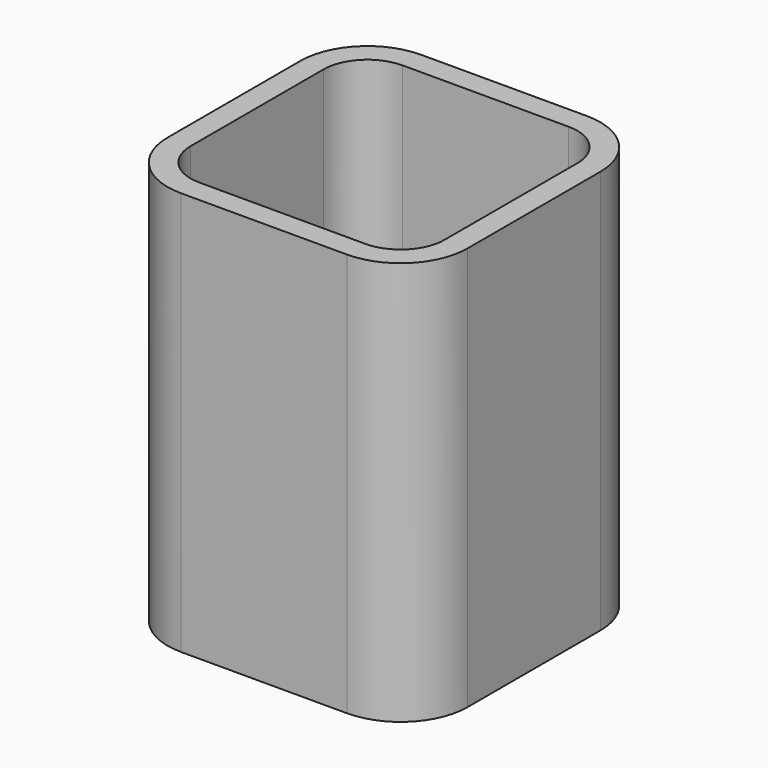
from build123d import *

# Parameters (mm, degrees)
F1_DEPTH = 35
F2_DEPTH = 2
F3_D     = 2.5


with BuildPart() as f1:
    # F0 (on Top) → F1 (new body)
    with BuildSketch(Plane.XY):
        with BuildLine():
            Line((13, -7.19), (13, 7.19))
            ThreePointArc((13, 7.19), (11.29829, 11.29829), (7.19, 13))
            Line((7.19, 13), (-7.19, 13))
            ThreePointArc((-7.19, 13), (-11.29829, 11.29829), (-13, 7.19))
            Line((-13, 7.19), (-13, -7.19))
            ThreePointArc((-13, -7.19), (-11.29829, -11.29829), (-7.19, -13))
            Line((-7.19, -13), (7.19, -13))
            ThreePointArc((7.19, -13), (11.29829, -11.29829), (13, -7.19))
        make_face()
        with BuildLine():
            ThreePointArc((-11, 7.19), (-9.884077, 9.884077), (-7.19, 11))
            Line((-7.19, 11), (7.19, 11))
            ThreePointArc((7.19, 11), (9.884077, 9.884077), (11, 7.19))
            Line((11, 7.19), (11, -7.19))
            ThreePointArc((11, -7.19), (9.884077, -9.884077), (7.19, -11))
            Line((7.19, -11), (-7.19, -11))
            ThreePointArc((-7.19, -11), (-9.884077, -9.884077), (-11, -7.19))
            Line((-11, -7.19), (-11, 7.19))
        make_face(mode=Mode.SUBTRACT)
    extrude(amount=F1_DEPTH)

    # F0 (on Top) → F2 (join)
    with BuildSketch(Plane.XY):
        with BuildLine():
            Line((7.19, 11), (-7.19, 11))
            ThreePointArc((-7.19, 11), (-9.884077, 9.884077), (-11, 7.19))
            Line((-11, 7.19), (-11, -7.19))
            ThreePointArc((-11, -7.19), (-9.884077, -9.884077), (-7.19, -11))
            Line((-7.19, -11), (7.19, -11))
            ThreePointArc((7.19, -11), (9.884077, -9.884077), (11, -7.19))
            Line((11, -7.19), (11, 7.19))
            ThreePointArc((11, 7.19), (9.884077, 9.884077), (7.19, 11))
        make_face()
    extrude(amount=F2_DEPTH)

    # F3 (through all)
    with Locations(Plane(origin=(0, 0, 0), x_dir=(1, 0, 0), z_dir=(0, 0, -1))):
        with Locations((0, 0)):
            Hole(F3_D / 2)


solid = f1.part
